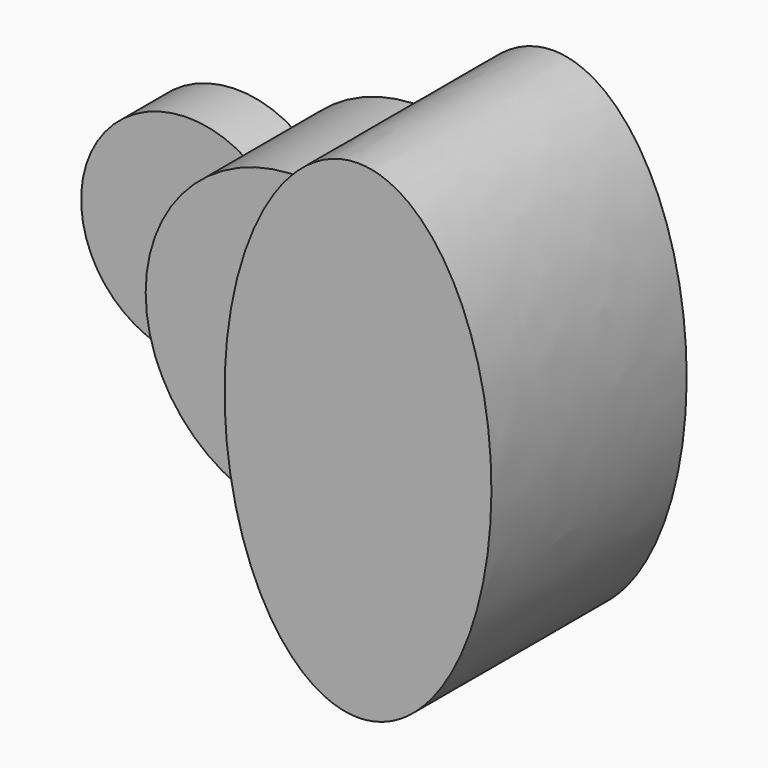
from build123d import *

# Parameters (mm, degrees)
F1_R     = 44.45
F4_DEPTH = 25.4
F0_R     = 63.302473
F5_DEPTH = 63.5
F6_DEPTH = 101.6


with BuildPart() as f4:
    # F1 (on Front) → F4 (new body)
    with BuildSketch(Plane.XZ):
        with Locations((-76.2, 0)):
            Circle(F1_R)
    extrude(amount=F4_DEPTH)

    # F0 (on Front) → F5 (join)
    with BuildSketch(Plane.XZ):
        Circle(F0_R)
    extrude(amount=F5_DEPTH)

    # F2 (on Front) → F6 (join)
    with BuildSketch(Plane.XZ):
        with BuildLine():
            Line((55.552737, 0), (0, 0))
            add(Edge.make_bspline(
                [(0, 0), (0, -245.284098), (94.834453, -71.842049), (189.668907, 101.6), (55.552737, 101.6)],
                knots=[1.570796, 1.570796, 1.570796, 3.926991, 3.926991, 6.283185, 6.283185, 6.283185], degree=2, weights=[1, 0.382683, 1, 0.382683, 1]))
            Line((55.552737, 101.6), (55.552737, 0))
        make_face()
        with BuildLine():
            add(Edge.make_bspline(
                [(55.552737, 101.6), (0, 101.6), (0, 0)],
                knots=[0, 0, 0, 1.570796, 1.570796, 1.570796], degree=2, weights=[1, 0.707107, 1]))
            Line((0, 0), (55.552737, 0))
            Line((55.552737, 0), (55.552737, 101.6))
        make_face()
    extrude(amount=F6_DEPTH)


solid = f4.part
